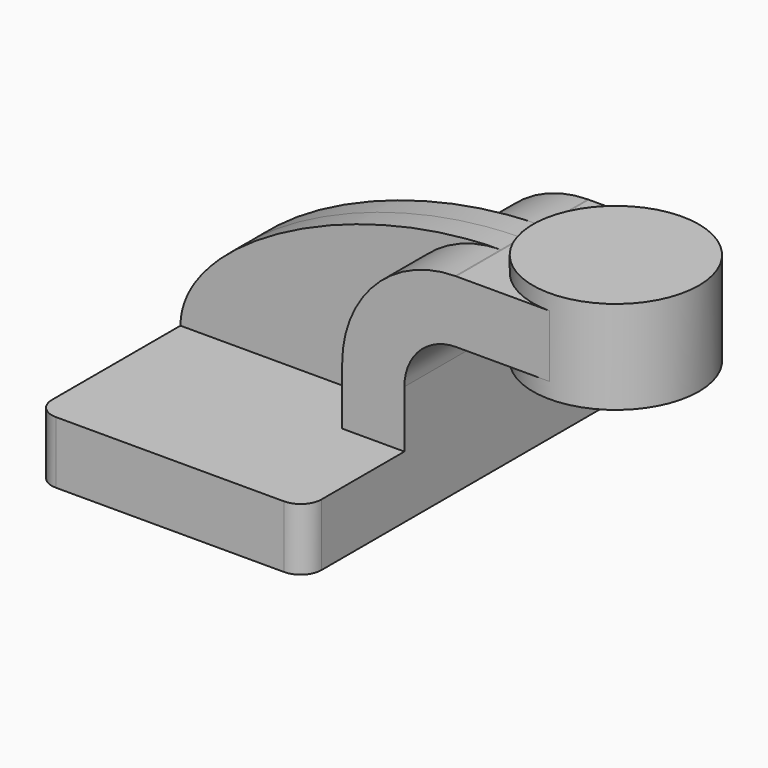
from build123d import *

# Parameters (mm, degrees)
F1_DEPTH = 63.5
F2_DEPTH = 7.9375
F0_W     = 25.4
F0_H     = 19.05
F3_DEPTH = 25.4
F5_R     = 6.35


with BuildPart() as f1:
    # F0 (on Front) → F1 (new body, symmetric)
    with BuildSketch(Plane.XZ):
        Polygon((-41.275, 9.525), (-41.275, -9.525), (41.275, -9.525), (41.275, 9.525), (22.225, 9.525), align=None)
    extrude(amount=F1_DEPTH, both=True)

    # F0 (on Front) → F2 (join, symmetric)
    with BuildSketch(Plane.XZ):
        with BuildLine():
            add(Edge.make_bspline(
                [(-41.275, 9.525), (-41.1430037548, 34.1428554675), (9.6645992103, 61.636308072), (56.8187902942, 61.9236294583)],
                knots=[0, 0, 0, 0, 111.2440300422, 111.2440300422, 111.2440300422, 111.2440300422], degree=3))
            Line((-41.275, 9.525), (22.225, 9.525))
            Line((22.225, 9.525), (22.225, 27.0002))
            ThreePointArc((22.225, 27.0002), (32.3374716728, 51.5785250653), (56.8187902942, 61.9236294583))
        make_face()
    extrude(amount=F2_DEPTH, both=True)

    # F0 (on Front) → F3 (join, symmetric)
    with BuildSketch(Plane.XZ):
        with BuildLine():
            Line((22.225, 9.525), (41.275, 9.525))
            Line((41.275, 9.525), (41.275, 27.0002))
            ThreePointArc((41.275, 27.0002), (45.9246798487, 38.2255201513), (57.15, 42.8752))
            Line((57.15, 42.8752), (60.325, 42.8752))
            Line((60.325, 42.8752), (60.325, 61.9252))
            Line((60.325, 61.9252), (57.15, 61.9252))
            add(Edge.make_bspline(
                [(56.8187902942, 61.9236294583), (56.9292137967, 61.9243022943), (57.0396172645, 61.9248259369), (57.15, 61.9252)],
                knots=[111.2440300422, 111.2440300422, 111.2440300422, 111.2440300422, 111.5045361635, 111.5045361635, 111.5045361635, 111.5045361635], degree=3))
            ThreePointArc((56.8187902942, 61.9236294583), (32.3374716728, 51.5785250653), (22.225, 27.0002))
            Line((22.225, 27.0002), (22.225, 9.525))
        make_face()
        with Locations((73.025, 52.4002)):
            Rectangle(F0_W, F0_H)
    extrude(amount=F3_DEPTH, both=True)

    # F0 (on Front) → F4 (revolve)
    with BuildSketch(Plane.XZ):
        Polygon((85.725, 66.675), (85.725, 61.9252), (85.802746323, 61.9252), (85.802746323, 42.8752), (85.725, 42.8752), (85.725, 38.1), (111.125, 38.1), (111.125, 66.675), align=None)
    revolve(axis=Axis((85.725, 0, 52.3875), (0, 0, 1)))

    # F5
    f5_edges = [f1.edges().sort_by_distance(p)[0] for p in [
        (-41.275, -63.5, 0),
        (41.275, -63.5, 0),
        (41.275, 63.5, 0),
        (-41.275, 63.5, 0),
    ]]
    fillet(f5_edges, radius=F5_R)


solid = f1.part
